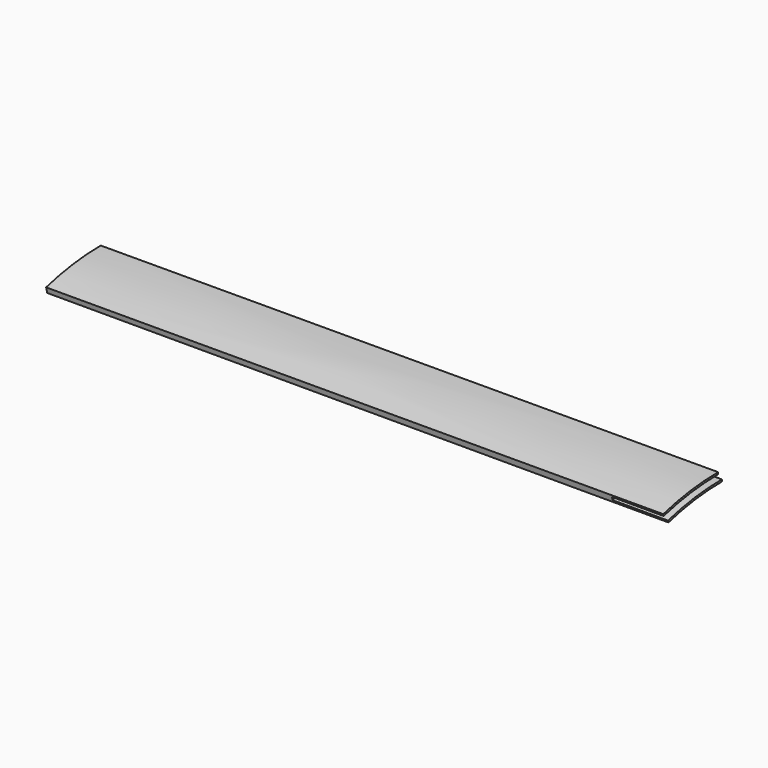
from build123d import *

# Parameters (mm, degrees)
F1_ANGLE = 15


with BuildPart() as f1:
    # F0 (on Front) → F1 (revolve)
    with BuildSketch(Plane.XZ):
        Polygon((955.956617, 411), (0, 409), (0, 400), (961.732832, 400), (961.732832, 403), (875.956617, 403), (875.956617, 408), (955.956617, 408), align=None)
    revolve(axis=Axis((-114.079464, 0, 0), (1, 0, 0)), revolution_arc=F1_ANGLE)


solid = f1.part
